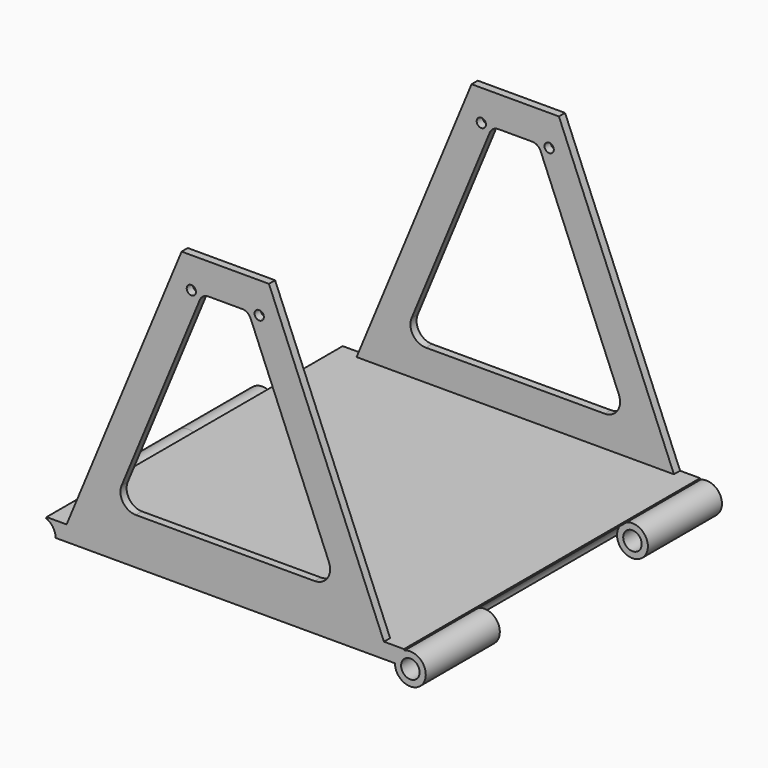
from build123d import *

# Parameters (mm, degrees)
F2_DEPTH  = 600
F3_R      = 50
F4_DEPTH  = 600
F5_R      = 50
F6_DEPTH  = 300
F7_R      = 50
F8_DEPTH  = 300
F9_R      = 30
F10_DEPTH = 600.001
F11_R     = 15
F12_DEPTH = 25


with BuildPart() as f2:
    # F1 (on Front) → F2 (new body)
    with BuildSketch(Plane.XZ):
        Polygon((-579.289322, -1398.528137), (-600, -1448.528137), (600, -1448.528137), (579.289322, -1398.528137), align=None)
    extrude(amount=F2_DEPTH)

    # F3 (on face) → F4 (join, through all)
    with BuildSketch(Plane.XZ):
        with Locations((-600, -1448.528137)):
            Circle(F3_R)
        with Locations((600, -1448.528137)):
            Circle(F3_R)
    extrude(amount=F4_DEPTH)

    # F5 (on Front) → F6 (cut, symmetric)
    with BuildSketch(Plane.XZ):
        with Locations((600, -1448.528137)):
            Circle(F5_R)
    extrude(amount=F6_DEPTH, both=True, mode=Mode.SUBTRACT)

    # F7 (on face) → F8 (cut, through all)
    with BuildSketch(Plane.XZ.offset(600)):
        with Locations((-600, -1448.528137)):
            Circle(F7_R)
    extrude(amount=-F8_DEPTH, mode=Mode.SUBTRACT)

    # F9 (on Front) → F10 (cut, through all)
    with BuildSketch(Plane.XZ):
        with Locations((-600, -1448.528137)):
            Circle(F9_R)
        with Locations((600, -1448.528137)):
            Circle(F9_R)
    extrude(amount=F10_DEPTH, mode=Mode.SUBTRACT)

    # F11 (on face) → F12 (join)
    with BuildSketch(Plane.XZ.offset(600)):
        Polygon((141.553584, -498.528137), (-141.553584, -498.528137), (-514.34579, -1398.528137), (514.34579, -1398.528137), align=None)
        with BuildLine():
            Line((-336.048902, -1229.393966), (-82.406747, -617.047634))
            ThreePointArc((-82.406747, -617.047634), (-71.357468, -603.584049), (-54.690361, -598.528137))
            Line((-54.690361, -598.528137), (54.690361, -598.528137))
            ThreePointArc((54.690361, -598.528137), (71.357468, -603.584049), (82.406747, -617.047634))
            Line((82.406747, -617.047634), (336.048902, -1229.393966))
            ThreePointArc((336.048902, -1229.393966), (331.428406, -1276.306649), (289.854925, -1298.528137))
            Line((289.854925, -1298.528137), (-289.854925, -1298.528137))
            ThreePointArc((-289.854925, -1298.528137), (-331.428406, -1276.306649), (-336.048902, -1229.393966))
        make_face(mode=Mode.SUBTRACT)
        with Locations((-110, -598.528137)):
            Circle(F11_R, mode=Mode.SUBTRACT)
        with Locations((110, -598.528137)):
            Circle(F11_R, mode=Mode.SUBTRACT)
    extrude(amount=-F12_DEPTH)

    # F13: F2 across plane


with BuildPart() as f2_1:
    add(f2.part)
    add(f2.part.mirror(Plane.XZ))


solid = f2_1.part
